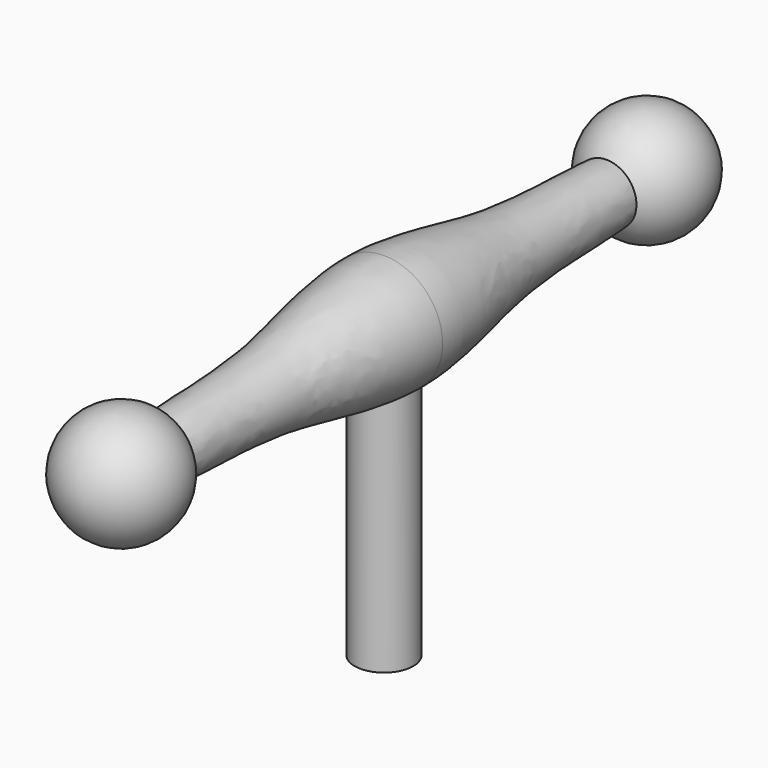
from build123d import *

# Parameters (mm, degrees)
F5_R     = 2.5
F6_DEPTH = 25


with BuildPart() as f2:
    # F1 (on Right) → F2 (revolve)
    with BuildSketch(Plane.YZ):
        with BuildLine():
            Line((-65.126866281, 37.146495508), (-55.126866281, 37.146495508))
            ThreePointArc((-55.126866281, 37.146495508), (-55.3055107736, 38.4710826404), (-55.8286787096, 39.7010176944))
            ThreePointArc((-55.8286787096, 39.7010176944), (-61.4514534135, 41.9678510154), (-65.126866281, 37.146495508))
        make_face()
        with BuildLine():
            ThreePointArc((-55.8286787096, 39.7010176944), (-55.3055107736, 38.4710826404), (-55.126866281, 37.146495508))
            Line((-55.126866281, 37.146495508), (-32.126866281, 37.146495508))
            Line((-32.126866281, 37.146495508), (-32.126866281, 42.146495508))
            add(Edge.make_bspline(
                [(-55.8286787096, 39.7010176944), (-52.1369661584, 39.9591630433), (-44.4849831476, 39.7044354809), (-36.3111111426, 42.1526526385), (-32.126866281, 42.146495508)],
                knots=[0, 0, 0, 0, 0.4864401109, 1, 1, 1, 1], degree=3))
        make_face()
    revolve(axis=Axis((0, -43.626866281, 37.146495508), (0, -1, 0)))

    # F3: F2 across face


with BuildPart() as f2_1:
    add(f2.part)
    add(f2.part.mirror(Plane(origin=(0, -32.126866281, 37.146495508), x_dir=(-1, 0, 0), z_dir=(0, 1, 0))))

    # F5 (on plane+point) → F6 (join)
    with BuildSketch(Plane.XY.offset(37.146495508)):
        with Locations((0, -32.126866281)):
            Circle(F5_R)
    extrude(amount=-F6_DEPTH)


solid = f2_1.part
